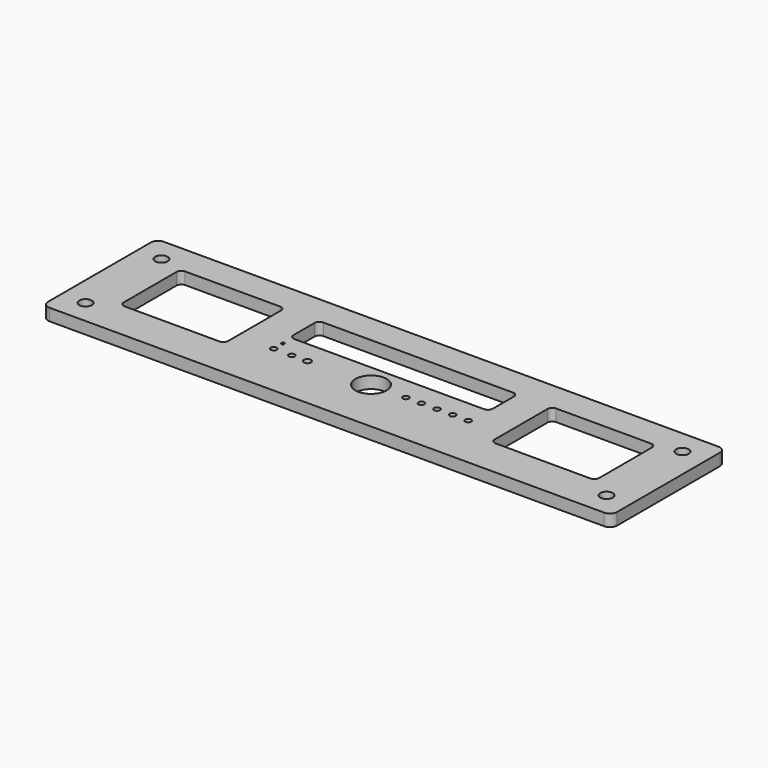
from build123d import *

# Parameters (mm, degrees)
F0_R     = 5.2
F0_R_2   = 2.5
F0_R_3   = 1.25
F0_R_4   = 3
F0_R_5   = 13
F1_DEPTH = 10
F2_DEPTH = 4


with BuildPart() as f1:
    # F0 (on Top) → F1 (new body)
    with BuildSketch(Plane.XY):
        with BuildLine():
            Line((-231, -59.5), (231, -59.5))
            ThreePointArc((231, -59.5), (235.242641, -57.742641), (237, -53.5))
            Line((237, -53.5), (237, 53.5))
            ThreePointArc((237, 53.5), (235.242641, 57.742641), (231, 59.5))
            Line((231, 59.5), (-231, 59.5))
            ThreePointArc((-231, 59.5), (-235.242641, 57.742641), (-237, 53.5))
            Line((-237, 53.5), (-237, -53.5))
            ThreePointArc((-237, -53.5), (-235.242641, -57.742641), (-231, -59.5))
        make_face()
        with Locations((-217, -39.5)):
            Circle(F0_R, mode=Mode.SUBTRACT)
        with Locations((-81, -13.5)):
            Circle(F0_R_2, mode=Mode.SUBTRACT)
        with Locations((-66, -13.5)):
            Circle(F0_R_2, mode=Mode.SUBTRACT)
        with Locations((-81, -4)):
            Circle(F0_R_3, mode=Mode.SUBTRACT)
        with Locations((-53, -13.5)):
            Circle(F0_R_4, mode=Mode.SUBTRACT)
        with Locations((0, -13.5)):
            Circle(F0_R_5, mode=Mode.SUBTRACT)
        with Locations((217, -39.5)):
            Circle(F0_R, mode=Mode.SUBTRACT)
        with Locations((29, -13.5)):
            Circle(F0_R_2, mode=Mode.SUBTRACT)
        with Locations((42, -13.5)):
            Circle(F0_R_2, mode=Mode.SUBTRACT)
        with Locations((55, -13.5)):
            Circle(F0_R_2, mode=Mode.SUBTRACT)
        with Locations((68, -13.5)):
            Circle(F0_R_2, mode=Mode.SUBTRACT)
        with Locations((81, -13.5)):
            Circle(F0_R_2, mode=Mode.SUBTRACT)
        with BuildLine():
            ThreePointArc((-198, 31.5), (-196.828427, 34.328427), (-194, 35.5))
            Line((-194, 35.5), (-115, 35.5))
            ThreePointArc((-115, 35.5), (-112.171573, 34.328427), (-111, 31.5))
            Line((-111, 31.5), (-111, -23.5))
            ThreePointArc((-111, -23.5), (-112.171573, -26.328427), (-115, -27.5))
            Line((-115, -27.5), (-194, -27.5))
            ThreePointArc((-194, -27.5), (-196.828427, -26.328427), (-198, -23.5))
            Line((-198, -23.5), (-198, 31.5))
        make_face(mode=Mode.SUBTRACT)
        with BuildLine():
            Line((-79, 35.5), (79, 35.5))
            ThreePointArc((79, 35.5), (81.828427, 34.328427), (83, 31.5))
            Line((83, 31.5), (83, 9.5))
            ThreePointArc((83, 9.5), (81.828427, 6.671573), (79, 5.5))
            Line((79, 5.5), (-79, 5.5))
            ThreePointArc((-79, 5.5), (-81.828427, 6.671573), (-83, 9.5))
            Line((-83, 9.5), (-83, 31.5))
            ThreePointArc((-83, 31.5), (-81.828427, 34.328427), (-79, 35.5))
        make_face(mode=Mode.SUBTRACT)
        with Locations((-217, 39.5)):
            Circle(F0_R, mode=Mode.SUBTRACT)
        with BuildLine():
            Line((111, -23.5), (111, 31.5))
            ThreePointArc((111, 31.5), (112.171573, 34.328427), (115, 35.5))
            Line((115, 35.5), (194, 35.5))
            ThreePointArc((194, 35.5), (196.828427, 34.328427), (198, 31.5))
            Line((198, 31.5), (198, -23.5))
            ThreePointArc((198, -23.5), (196.828427, -26.328427), (194, -27.5))
            Line((194, -27.5), (115, -27.5))
            ThreePointArc((115, -27.5), (112.171573, -26.328427), (111, -23.5))
        make_face(mode=Mode.SUBTRACT)
        with Locations((217, 39.5)):
            Circle(F0_R, mode=Mode.SUBTRACT)
    extrude(amount=F1_DEPTH)

    # F0 (on Top) → F2 (join)
    with BuildSketch(Plane.XY):
        with Locations((-217, 39.5)):
            Circle(F0_R)
        with Locations((-217, 39.5)):
            Circle(F0_R_4, mode=Mode.SUBTRACT)
        with Locations((-217, -39.5)):
            Circle(F0_R)
        with Locations((-217, -39.5)):
            Circle(F0_R_4, mode=Mode.SUBTRACT)
        with Locations((217, -39.5)):
            Circle(F0_R)
        with Locations((217, -39.5)):
            Circle(F0_R_4, mode=Mode.SUBTRACT)
        with Locations((217, 39.5)):
            Circle(F0_R)
        with Locations((217, 39.5)):
            Circle(F0_R_4, mode=Mode.SUBTRACT)
    extrude(amount=F2_DEPTH)


solid = f1.part
